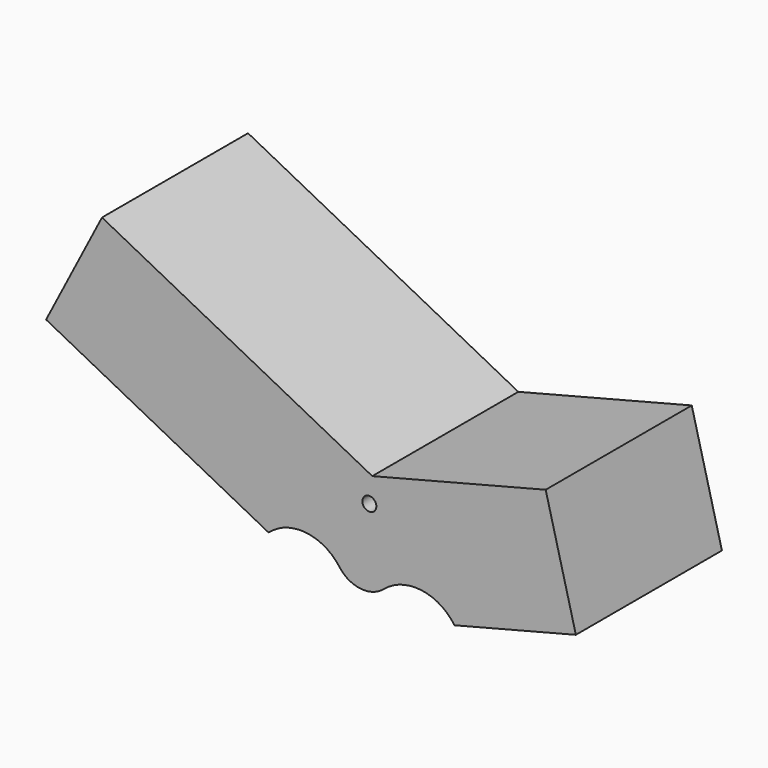
from build123d import *

# Parameters (mm, degrees)
F1_DEPTH = 3.81
F2_R     = 0.1456869123
F3_DEPTH = 3.81
F5_DEPTH = 25.4


with BuildPart() as f1:
    # F0 (on Front) → F1 (new body)
    with BuildSketch(Plane.XZ):
        with BuildLine():
            Line((4.8432132158, 18.5995820194), (-0.7969688229, 21.5169175451))
            Line((-0.7969688229, 21.5169175451), (-1.9639030332, 19.2608447295))
            Line((-1.9639030332, 19.2608447295), (2.6801745949, 16.8587356211))
            ThreePointArc((2.6801745949, 16.8587356211), (3.4526909685, 17.1123534538), (4.1582529007, 16.708266938))
            ThreePointArc((4.1582529007, 16.708266938), (4.5987642694, 16.4524828685), (5.0854991089, 16.6026992195))
            ThreePointArc((5.0854991089, 16.6026992195), (5.8638378577, 16.8378424622), (6.5595735586, 16.4170629629))
            Line((6.5595735586, 16.4170629629), (11.6247636885, 17.7137642129))
            Line((11.6247636885, 17.7137642129), (10.9948318325, 20.1744116595))
            Line((10.9948318325, 20.1744116595), (4.8432132158, 18.5995820194))
        make_face()
    extrude(amount=F1_DEPTH)

    # F2 (on face) → F3 (cut, through all)
    with BuildSketch(Plane.XZ.offset(3.81)):
        with Locations((4.7830365223, 18.0710245049)):
            Circle(F2_R)
    extrude(amount=-F3_DEPTH, mode=Mode.SUBTRACT)

    # F4 (on face) → F5 (cut)
    with BuildSketch(Plane.XZ.offset(3.81)):
        Polygon((11.6247636885, 17.7137642129), (10.9948318325, 20.1744116595), (8.4622367675, 19.5260610345), (9.0921686236, 17.0654135879), align=None)
    extrude(amount=-F5_DEPTH, mode=Mode.SUBTRACT)


solid = f1.part
